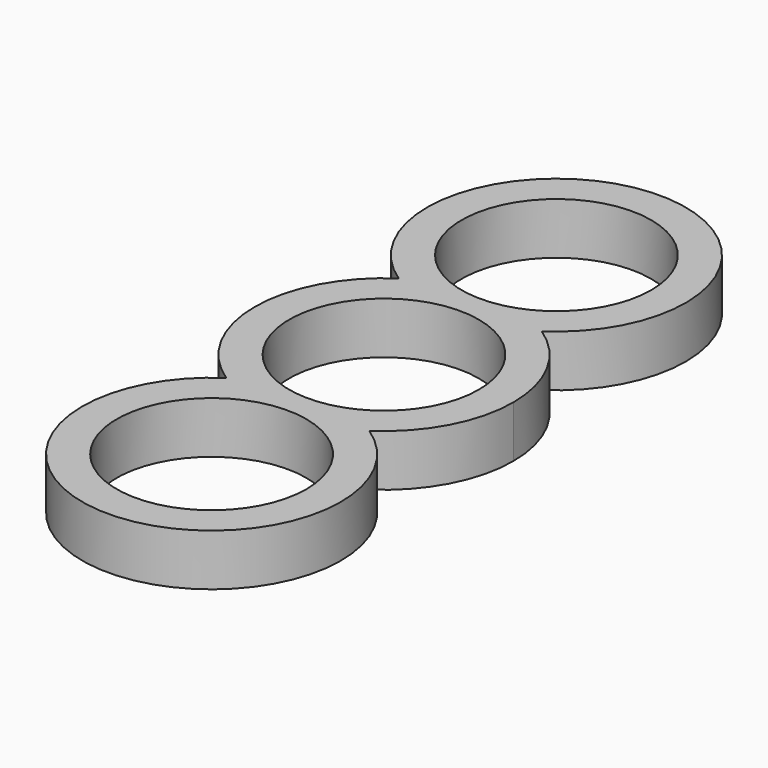
from build123d import *

# Parameters (mm, degrees)
F0_R     = 11
F1_DEPTH = 6


with BuildPart() as f1:
    # F0 (on Top) → F1 (new body)
    with BuildSketch(Plane.XY):
        with BuildLine():
            ThreePointArc((8.291562, -12.5), (0, 15), (-8.291562, -12.5))
            ThreePointArc((-8.291562, -12.5), (-13.21691, -17.906814), (-15, -25))
            ThreePointArc((-15, -25), (-13.21691, -32.093186), (-8.291562, -37.5))
            ThreePointArc((-8.291562, -37.5), (0, -65), (8.291562, -37.5))
            ThreePointArc((8.291562, -37.5), (13.21691, -32.093186), (15, -25))
            ThreePointArc((15, -25), (13.21691, -17.906814), (8.291562, -12.5))
        make_face()
        with Locations((0, -50)):
            Circle(F0_R, mode=Mode.SUBTRACT)
        with BuildLine():
            ThreePointArc((-11, -25), (0, -14), (11, -25))
            ThreePointArc((11, -25), (0, -36), (-11, -25))
        make_face(mode=Mode.SUBTRACT)
        Circle(F0_R, mode=Mode.SUBTRACT)
    extrude(amount=F1_DEPTH)


solid = f1.part
